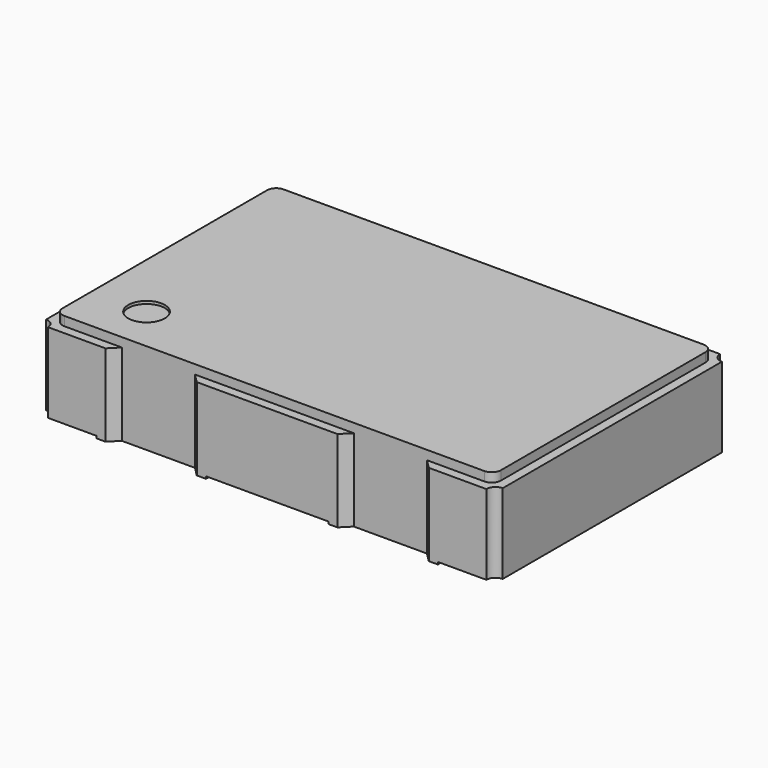
from build123d import *

# Parameters (mm, degrees)
PAD004_DEPTH = 0.025
PAD_DEPTH    = 0.85
PAD003_DEPTH = 0.75
SKETCH002_W  = 4.8
SKETCH002_H  = 3
PAD001_DEPTH = 0.125
FILLET_R     = 0.1
FILLET001_R  = 0.1
FILLET002_R  = 0.1
FILLET003_R  = 0.1
SKETCH005_R  = 0.2
POCKET_DEPTH = 0.03


with BuildPart() as bodycover:
    # Sketch006 → Pad004 (new body)
    with BuildSketch(Plane.XY.offset(0.875)):
        with BuildLine():
            Line((-1.77, -1.6), (-1.67, -1.5))
            Line((-1.67, -1.5), (-0.87, -1.5))
            Line((-0.87, -1.5), (-0.77, -1.6))
            Line((-0.77, -1.6), (0.77, -1.6))
            Line((0.77, -1.6), (0.87, -1.5))
            Line((0.87, -1.5), (1.67, -1.5))
            Line((1.67, -1.5), (1.77, -1.6))
            Line((1.77, -1.6), (2.4, -1.6))
            ThreePointArc((2.5, -1.5), (2.429289, -1.529289), (2.4, -1.6))
            Line((2.5, -1.5), (2.5, 1.5))
            ThreePointArc((2.4, 1.6), (2.429289, 1.529289), (2.5, 1.5))
            Line((1.77, 1.6), (2.4, 1.6))
            Line((1.67, 1.5), (1.77, 1.6))
            Line((0.87, 1.5), (1.67, 1.5))
            Line((0.77, 1.6), (0.87, 1.5))
            Line((-0.77, 1.6), (0.77, 1.6))
            Line((-0.87, 1.5), (-0.77, 1.6))
            Line((-1.67, 1.5), (-0.87, 1.5))
            Line((-1.77, 1.6), (-1.67, 1.5))
            Line((-2.4, 1.6), (-1.77, 1.6))
            ThreePointArc((-2.5, 1.5), (-2.429289, 1.529289), (-2.4, 1.6))
            Line((-2.5, 1.5), (-2.5, -1.5))
            ThreePointArc((-2.4, -1.6), (-2.429289, -1.529289), (-2.5, -1.5))
            Line((-2.4, -1.6), (-1.77, -1.6))
        make_face()
    extrude(amount=PAD004_DEPTH)


with BuildPart() as body:
    # Sketch → Pad (new body)
    with BuildSketch(Plane.XY.offset(0.025)):
        with BuildLine():
            Line((-1.77, -1.6), (-1.67, -1.5))
            Line((-1.67, -1.5), (-0.87, -1.5))
            Line((-0.87, -1.5), (-0.77, -1.6))
            Line((-0.77, -1.6), (0.77, -1.6))
            Line((0.77, -1.6), (0.87, -1.5))
            Line((0.87, -1.5), (1.67, -1.5))
            Line((1.67, -1.5), (1.77, -1.6))
            Line((1.77, -1.6), (2.4, -1.6))
            ThreePointArc((2.5, -1.5), (2.429289, -1.529289), (2.4, -1.6))
            Line((2.5, -1.5), (2.5, 1.5))
            ThreePointArc((2.4, 1.6), (2.429289, 1.529289), (2.5, 1.5))
            Line((1.77, 1.6), (2.4, 1.6))
            Line((1.67, 1.5), (1.77, 1.6))
            Line((0.87, 1.5), (1.67, 1.5))
            Line((0.77, 1.6), (0.87, 1.5))
            Line((-0.77, 1.6), (0.77, 1.6))
            Line((-0.87, 1.5), (-0.77, 1.6))
            Line((-1.67, 1.5), (-0.87, 1.5))
            Line((-1.77, 1.6), (-1.67, 1.5))
            Line((-2.4, 1.6), (-1.77, 1.6))
            ThreePointArc((-2.5, 1.5), (-2.429289, 1.529289), (-2.4, 1.6))
            Line((-2.5, 1.5), (-2.5, -1.5))
            ThreePointArc((-2.4, -1.6), (-2.429289, -1.529289), (-2.5, -1.5))
            Line((-2.4, -1.6), (-1.77, -1.6))
        make_face()
    extrude(amount=PAD_DEPTH)


with BuildPart() as pads:
    # Sketch004 → Pad003 (new body)
    with BuildSketch(Plane.XY):
        Polygon((-0.67, 1.6), (-0.67, 0.6), (-1.87, 0.6), (-1.87, 1.6), (-1.77, 1.6), (-1.67, 1.5), (-0.87, 1.5), (-0.77, 1.6), align=None)
        Polygon((1.87, 1.6), (1.87, 0.6), (0.67, 0.6), (0.67, 1.6), (0.77, 1.6), (0.87, 1.5), (1.67, 1.5), (1.77, 1.6), align=None)
        Polygon((1.87, -1.6), (1.87, -0.6), (0.67, -0.6), (0.67, -1.6), (0.77, -1.6), (0.87, -1.5), (1.67, -1.5), (1.77, -1.6), align=None)
        Polygon((-1.87, -1.6), (-1.87, -0.6), (-0.952843, -0.6), (-0.67, -0.882843), (-0.67, -1.6), (-0.77, -1.6), (-0.87, -1.5), (-1.67, -1.5), (-1.77, -1.6), align=None)
    extrude(amount=PAD003_DEPTH)


with BuildPart() as fusion:
    # Sketch002 → Pad001 (new body)
    with BuildSketch(Plane.XY.offset(0.875)):
        Rectangle(SKETCH002_W, SKETCH002_H)
    extrude(amount=PAD001_DEPTH)

    # Fillet
    fillet_edges = [fusion.edges().sort_by_distance(p)[0] for p in [
        (2.4, -1.5, 0.9375),
    ]]
    fillet(fillet_edges, radius=FILLET_R)

    # Fillet001
    fillet001_edges = [fusion.edges().sort_by_distance(p)[0] for p in [
        (2.4, 1.5, 0.9375),
    ]]
    fillet(fillet001_edges, radius=FILLET001_R)

    # Fillet002
    fillet002_edges = [fusion.edges().sort_by_distance(p)[0] for p in [
        (-2.4, -1.5, 0.9375),
    ]]
    fillet(fillet002_edges, radius=FILLET002_R)

    # Fillet003
    fillet003_edges = [fusion.edges().sort_by_distance(p)[0] for p in [
        (-2.4, 1.5, 0.9375),
    ]]
    fillet(fillet003_edges, radius=FILLET003_R)

    # Sketch005 → Pocket (cut)
    with BuildSketch(Plane.XY.offset(1)):
        with Locations((-1.8, -1)):
            Circle(SKETCH005_R)
    extrude(amount=-POCKET_DEPTH, mode=Mode.SUBTRACT)

    # Fusion: union BodyCover, Body, Pads
    add(bodycover.part)
    add(body.part)
    add(pads.part)


solid = fusion.part
